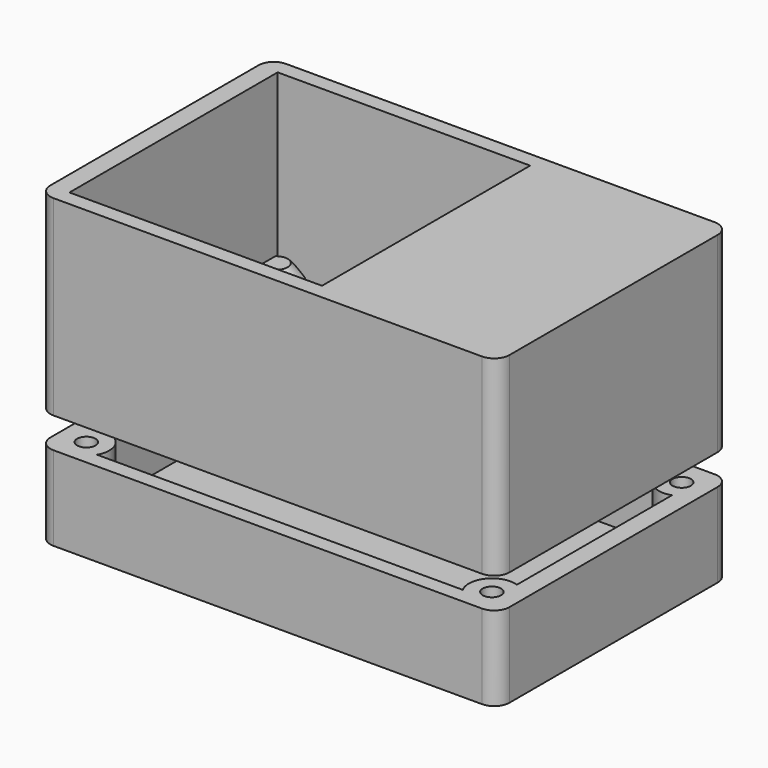
from build123d import *

# Parameters (mm, degrees)
BOX005_W          = 7
BOX005_H          = 10
BOX005_DEPTH      = 6
FILLET002_R       = 3
CYLINDER009_R     = 1.2
CYLINDER009_DEPTH = 7
CYLINDER008_R     = 2.4
CYLINDER008_DEPTH = 12
CYLINDER007_R     = 1.2
CYLINDER007_DEPTH = 7
CYLINDER006_R     = 2.4
CYLINDER006_DEPTH = 13
CYLINDER002_R     = 1.2
CYLINDER002_DEPTH = 7
CYLINDER001_R     = 2.4
CYLINDER001_DEPTH = 13
CYLINDER011_R     = 1.2
CYLINDER011_DEPTH = 7
CYLINDER010_R     = 2.4
CYLINDER010_DEPTH = 12
CYLINDER012_R     = 3
CYLINDER012_DEPTH = 11
CYLINDER014_R     = 3
CYLINDER014_DEPTH = 11
CYLINDER013_R     = 3
CYLINDER013_DEPTH = 11
CYLINDER015_R     = 3
CYLINDER015_DEPTH = 11
BOX004_W          = 55
BOX004_H          = 34
BOX004_DEPTH      = 11
BOX003_W          = 60
BOX003_H          = 38
BOX003_DEPTH      = 11
FILLET001_R       = 2
CYLINDER018_R     = 1
CYLINDER018_DEPTH = 3
CYLINDER019_R     = 1
CYLINDER019_DEPTH = 3
CYLINDER017_R     = 1
CYLINDER017_DEPTH = 3
CYLINDER016_R     = 1
CYLINDER016_DEPTH = 3
CYLINDER003_R     = 3
CYLINDER003_DEPTH = 4
CHAMFER002_SIZE   = 1.5
CYLINDER004_R     = 3
CYLINDER004_DEPTH = 4
CHAMFER003_SIZE   = 1.5
CYLINDER_R        = 3
CYLINDER_DEPTH    = 4
CHAMFER001_SIZE   = 1.5
BOX002_W          = 33
BOX002_H          = 34
BOX002_DEPTH      = 11
BOX001_W          = 55
BOX001_H          = 34
BOX001_DEPTH      = 21
BOX_W             = 60
BOX_H             = 38
BOX_DEPTH         = 25
FILLET_R          = 2
CYLINDER005_R     = 3
CYLINDER005_DEPTH = 4
CHAMFER004_SIZE   = 1.5


with BuildPart() as fillet002:
    # Box005 → Box005 (new body)
    with BuildSketch(Plane(origin=(45, 10, -17), x_dir=(1, 0, 0), z_dir=(0, 0, 1))):
        with Locations((3.5, 5)):
            Rectangle(BOX005_W, BOX005_H)
    extrude(amount=BOX005_DEPTH)

    # Fillet002
    fillet002_edges = [fillet002.edges().sort_by_distance(p)[0] for p in [
        (45, 10, -14),
        (45, 20, -14),
        (52, 10, -14),
        (52, 20, -14),
    ]]
    fillet(fillet002_edges, radius=FILLET002_R)


with BuildPart() as fillet002_1:
    # Fillet002 placement: moved
    add(fillet002.part.moved(Location((2, 4, 0))))


with BuildPart() as cylinder009:
    # Cylinder009 → Cylinder009 (new body)
    with BuildSketch(Plane(origin=(3, 3, -3), x_dir=(1, 0, 0), z_dir=(0, 0, 1))):
        Circle(CYLINDER009_R)
    extrude(amount=CYLINDER009_DEPTH)


with BuildPart() as fusion004:
    # Cylinder008 → Cylinder008 (new body)
    with BuildSketch(Plane(origin=(3, 3, -15), x_dir=(1, 0, 0), z_dir=(0, 0, 1))):
        Circle(CYLINDER008_R)
    extrude(amount=CYLINDER008_DEPTH)

    # Fusion004: union Cylinder009
    add(cylinder009.part)


with BuildPart() as fusion004_1:
    # Fusion004 placement: moved
    add(fusion004.part.moved(Location((53, 31, -4))))


with BuildPart() as cylinder007:
    # Cylinder007 → Cylinder007 (new body)
    with BuildSketch(Plane(origin=(3, 3, -3), x_dir=(1, 0, 0), z_dir=(0, 0, 1))):
        Circle(CYLINDER007_R)
    extrude(amount=CYLINDER007_DEPTH)


with BuildPart() as fusion003:
    # Cylinder006 → Cylinder006 (new body)
    with BuildSketch(Plane(origin=(3, 3, -15), x_dir=(1, 0, 0), z_dir=(0, 0, 1))):
        Circle(CYLINDER006_R)
    extrude(amount=CYLINDER006_DEPTH)

    # Fusion003: union Cylinder007
    add(cylinder007.part)


with BuildPart() as fusion003_1:
    # Fusion003 placement: moved
    add(fusion003.part.moved(Location((53, 0, -4))))


with BuildPart() as cylinder002:
    # Cylinder002 → Cylinder002 (new body)
    with BuildSketch(Plane(origin=(3, 3, -3), x_dir=(1, 0, 0), z_dir=(0, 0, 1))):
        Circle(CYLINDER002_R)
    extrude(amount=CYLINDER002_DEPTH)


with BuildPart() as fusion001:
    # Cylinder001 → Cylinder001 (new body)
    with BuildSketch(Plane(origin=(3, 3, -15), x_dir=(1, 0, 0), z_dir=(0, 0, 1))):
        Circle(CYLINDER001_R)
    extrude(amount=CYLINDER001_DEPTH)

    # Fusion001: union Cylinder002
    add(cylinder002.part)


with BuildPart() as fusion001_1:
    # Fusion001 placement: moved
    add(fusion001.part.moved(Location((0, 0, -4))))


with BuildPart() as cylinder011:
    # Cylinder011 → Cylinder011 (new body)
    with BuildSketch(Plane(origin=(3, 3, -3), x_dir=(1, 0, 0), z_dir=(0, 0, 1))):
        Circle(CYLINDER011_R)
    extrude(amount=CYLINDER011_DEPTH)


with BuildPart() as fusion008:
    # Cylinder010 → Cylinder010 (new body)
    with BuildSketch(Plane(origin=(3, 3, -15), x_dir=(1, 0, 0), z_dir=(0, 0, 1))):
        Circle(CYLINDER010_R)
    extrude(amount=CYLINDER010_DEPTH)

    # Fusion005: union Cylinder011
    add(cylinder011.part)


with BuildPart() as fusion008_1:
    # Fusion005 placement: moved
    add(fusion008.part.moved(Location((0, 31, -4))))

    # Fusion008: union Fusion004, Fusion003, Fusion001
    add(fusion004_1.part)
    add(fusion003_1.part)
    add(fusion001_1.part)


with BuildPart() as fusion008_2:
    # Fusion008 placement: moved
    add(fusion008_1.part.moved(Location((0, 0, -4))))


with BuildPart() as cylinder012:
    # Cylinder012 → Cylinder012 (new body)
    with BuildSketch(Plane(origin=(3, 3, -15), x_dir=(1, 0, 0), z_dir=(0, 0, 1))):
        Circle(CYLINDER012_R)
    extrude(amount=CYLINDER012_DEPTH)


with BuildPart() as cylinder014:
    # Cylinder014 → Cylinder014 (new body)
    with BuildSketch(Plane(origin=(56, 34, -15), x_dir=(1, 0, 0), z_dir=(0, 0, 1))):
        Circle(CYLINDER014_R)
    extrude(amount=CYLINDER014_DEPTH)


with BuildPart() as cylinder013:
    # Cylinder013 → Cylinder013 (new body)
    with BuildSketch(Plane(origin=(56, 3, -15), x_dir=(1, 0, 0), z_dir=(0, 0, 1))):
        Circle(CYLINDER013_R)
    extrude(amount=CYLINDER013_DEPTH)


with BuildPart() as fusion006:
    # Cylinder015 → Cylinder015 (new body)
    with BuildSketch(Plane(origin=(3, 34, -15), x_dir=(1, 0, 0), z_dir=(0, 0, 1))):
        Circle(CYLINDER015_R)
    extrude(amount=CYLINDER015_DEPTH)

    # Fusion006: union Cylinder012, Cylinder014, Cylinder013
    add(cylinder012.part)
    add(cylinder014.part)
    add(cylinder013.part)


with BuildPart() as vaciado_tapa:
    # Box004 → Box004 (new body)
    with BuildSketch(Plane(origin=(2, 1.5, -13), x_dir=(1, 0, 0), z_dir=(0, 0, 1))):
        with Locations((27.5, 17)):
            Rectangle(BOX004_W, BOX004_H)
    extrude(amount=BOX004_DEPTH)


with BuildPart() as obj1:
    # Box003 → Box003 (new body)
    with BuildSketch(Plane(origin=(-0.5, -0.5, -15), x_dir=(1, 0, 0), z_dir=(0, 0, 1))):
        with Locations((30, 19)):
            Rectangle(BOX003_W, BOX003_H)
    extrude(amount=BOX003_DEPTH)

    # Cut001: cut vaciado tapa
    add(vaciado_tapa.part, mode=Mode.SUBTRACT)

    # Fillet001
    fillet001_edges = [obj1.edges().sort_by_distance(p)[0] for p in [
        (-0.5, -0.5, -9.5),
        (-0.5, 37.5, -9.5),
        (59.5, -0.5, -9.5),
        (59.5, 37.5, -9.5),
    ]]
    fillet(fillet001_edges, radius=FILLET001_R)

    # Fusion007: union Fusion006
    add(fusion006.part)

    # Cut002: cut Fusion008
    add(fusion008_2.part, mode=Mode.SUBTRACT)

    # Cut003: cut Fillet002
    add(fillet002_1.part, mode=Mode.SUBTRACT)


with BuildPart() as cylinder018:
    # Cylinder018 → Cylinder018 (new body)
    with BuildSketch(Plane(origin=(56, 34, 0), x_dir=(1, 0, 0), z_dir=(0, 0, 1))):
        Circle(CYLINDER018_R)
    extrude(amount=CYLINDER018_DEPTH)


with BuildPart() as cylinder019:
    # Cylinder019 → Cylinder019 (new body)
    with BuildSketch(Plane(origin=(3, 34, 0), x_dir=(1, 0, 0), z_dir=(0, 0, 1))):
        Circle(CYLINDER019_R)
    extrude(amount=CYLINDER019_DEPTH)


with BuildPart() as cylinder017:
    # Cylinder017 → Cylinder017 (new body)
    with BuildSketch(Plane(origin=(56, 3, 0), x_dir=(1, 0, 0), z_dir=(0, 0, 1))):
        Circle(CYLINDER017_R)
    extrude(amount=CYLINDER017_DEPTH)


with BuildPart() as vaciado_tornillos_caja:
    # Cylinder016 → Cylinder016 (new body)
    with BuildSketch(Plane(origin=(3, 3, 0), x_dir=(1, 0, 0), z_dir=(0, 0, 1))):
        Circle(CYLINDER016_R)
    extrude(amount=CYLINDER016_DEPTH)

    # Fusion010: union Cylinder018, Cylinder019, Cylinder017
    add(cylinder018.part)
    add(cylinder019.part)
    add(cylinder017.part)


with BuildPart() as obj2:
    # Cylinder003 → Cylinder003 (new body)
    with BuildSketch(Plane(origin=(3, 3, -15), x_dir=(1, 0, 0), z_dir=(0, 0, 1))):
        Circle(CYLINDER003_R)
    extrude(amount=CYLINDER003_DEPTH)

    # Chamfer002
    chamfer002_edges = [obj2.edges().sort_by_distance(p)[0] for p in [
        (0, 3, -11),
    ]]
    chamfer(chamfer002_edges, length=CHAMFER002_SIZE)


with BuildPart() as obj2_1:
    # Chamfer002 placement: moved
    add(obj2.part.moved(Location((53, 0, 15))))


with BuildPart() as obj3:
    # Cylinder004 → Cylinder004 (new body)
    with BuildSketch(Plane(origin=(3, 3, -15), x_dir=(1, 0, 0), z_dir=(0, 0, 1))):
        Circle(CYLINDER004_R)
    extrude(amount=CYLINDER004_DEPTH)

    # Chamfer003
    chamfer003_edges = [obj3.edges().sort_by_distance(p)[0] for p in [
        (0, 3, -11),
    ]]
    chamfer(chamfer003_edges, length=CHAMFER003_SIZE)


with BuildPart() as obj3_1:
    # Chamfer003 placement: moved
    add(obj3.part.moved(Location((0, 31, 15))))


with BuildPart() as obj4:
    # Cylinder → Cylinder (new body)
    with BuildSketch(Plane(origin=(3, 3, -15), x_dir=(1, 0, 0), z_dir=(0, 0, 1))):
        Circle(CYLINDER_R)
    extrude(amount=CYLINDER_DEPTH)

    # Chamfer001
    chamfer001_edges = [obj4.edges().sort_by_distance(p)[0] for p in [
        (0, 3, -11),
    ]]
    chamfer(chamfer001_edges, length=CHAMFER001_SIZE)


with BuildPart() as obj4_1:
    # Chamfer001 placement: moved
    add(obj4.part.moved(Location((0, 0, 15))))


with BuildPart() as vaciado001:
    # Box002 → Box002 (new body)
    with BuildSketch(Plane(origin=(2, 1.5, 15), x_dir=(1, 0, 0), z_dir=(0, 0, 1))):
        with Locations((16.5, 17)):
            Rectangle(BOX002_W, BOX002_H)
    extrude(amount=BOX002_DEPTH)


with BuildPart() as fusion:
    # Box001 → Box001 (new body)
    with BuildSketch(Plane(origin=(2, 1.5, 0), x_dir=(1, 0, 0), z_dir=(0, 0, 1))):
        with Locations((27.5, 17)):
            Rectangle(BOX001_W, BOX001_H)
    extrude(amount=BOX001_DEPTH)

    # Fusion: union vaciado001
    add(vaciado001.part)


with BuildPart() as fillet_body:
    # Box → Box (new body)
    with BuildSketch(Plane(origin=(-0.5, -0.5, 0), x_dir=(1, 0, 0), z_dir=(0, 0, 1))):
        with Locations((30, 19)):
            Rectangle(BOX_W, BOX_H)
    extrude(amount=BOX_DEPTH)

    # Cut: cut Fusion
    add(fusion.part, mode=Mode.SUBTRACT)

    # Fillet
    fillet_edges = [fillet_body.edges().sort_by_distance(p)[0] for p in [
        (-0.5, -0.5, 12.5),
        (-0.5, 37.5, 12.5),
        (59.5, -0.5, 12.5),
        (59.5, 37.5, 12.5),
    ]]
    fillet(fillet_edges, radius=FILLET_R)


with BuildPart() as frontal:
    # Cylinder005 → Cylinder005 (new body)
    with BuildSketch(Plane(origin=(3, 3, -15), x_dir=(1, 0, 0), z_dir=(0, 0, 1))):
        Circle(CYLINDER005_R)
    extrude(amount=CYLINDER005_DEPTH)

    # Chamfer004
    chamfer004_edges = [frontal.edges().sort_by_distance(p)[0] for p in [
        (0, 3, -11),
    ]]
    chamfer(chamfer004_edges, length=CHAMFER004_SIZE)


with BuildPart() as frontal_1:
    # Chamfer004 placement: moved
    add(frontal.part.moved(Location((53, 31, 15))))

    # Fusion009: union obj2, obj3, obj4, Fillet body
    add(obj2_1.part)
    add(obj3_1.part)
    add(obj4_1.part)
    add(fillet_body.part)

    # Cut005: cut vaciado tornillos caja
    add(vaciado_tornillos_caja.part, mode=Mode.SUBTRACT)


solid = Compound([obj1.part, frontal_1.part])
